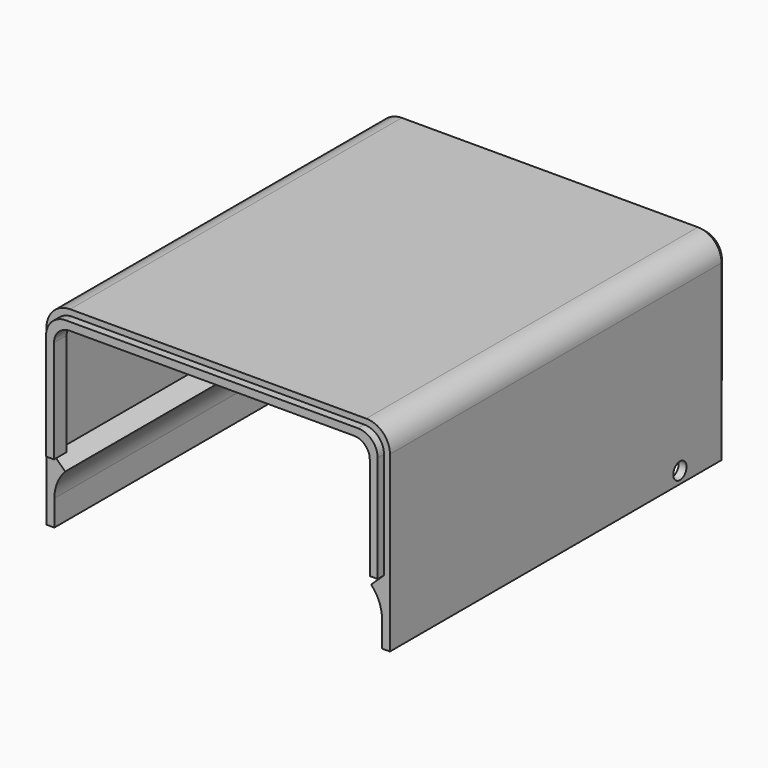
from build123d import *

# Parameters (mm, degrees)
F1_DEPTH = 105
F2_R     = 2.1
F3_DEPTH = 87.001
F6_DEPTH = 2
F8_DEPTH = 2


with BuildPart() as f1:
    # F0 (on Front) → F1 (new body)
    with BuildSketch(Plane.XZ):
        with BuildLine():
            ThreePointArc((-41.5, 11.5), (-40.784767, 15.213907), (-38.741379, 18.396552))
            Line((-38.741379, 18.396552), (-42, 21.5))
            Line((-42, 21.5), (-42, 48.5))
            ThreePointArc((-42, 48.5), (-40.535534, 52.035534), (-37, 53.5))
            Line((-37, 53.5), (37, 53.5))
            ThreePointArc((37, 53.5), (40.535534, 52.035534), (42, 48.5))
            Line((42, 48.5), (42, 21.5))
            Line((42, 21.5), (38.741379, 18.396552))
            ThreePointArc((38.741379, 18.396552), (40.784767, 15.213907), (41.5, 11.5))
            Line((41.5, 11.5), (41.5, 5))
            Line((41.5, 5), (43.5, 5))
            Line((43.5, 5), (43.5, 49))
            ThreePointArc((43.5, 49), (41.742641, 53.242641), (37.5, 55))
            Line((37.5, 55), (-37.5, 55))
            ThreePointArc((-37.5, 55), (-41.742641, 53.242641), (-43.5, 49))
            Line((-43.5, 49), (-43.5, 5))
            Line((-43.5, 5), (-41.5, 5))
            Line((-41.5, 5), (-41.5, 11.5))
        make_face()
    extrude(amount=F1_DEPTH)

    # F2 (on face) → F3 (cut, through all)
    with BuildSketch(Plane.YZ.offset(43.5)):
        with Locations((-13.182085, 8)):
            Circle(F2_R)
    extrude(amount=-F3_DEPTH, mode=Mode.SUBTRACT)

    # F5 (on face) → F6 (join, symmetric)
    with BuildSketch(Plane.XZ.offset(105)):
        with BuildLine():
            Line((-42, 21.5), (-40, 21.5))
            Line((-40, 21.5), (-40, 47.5))
            ThreePointArc((-40, 47.5), (-38.828427, 50.328427), (-36, 51.5))
            Line((-36, 51.5), (36, 51.5))
            ThreePointArc((36, 51.5), (38.828427, 50.328427), (40, 47.5))
            Line((40, 47.5), (40, 21.5))
            Line((40, 21.5), (42, 21.5))
            Line((42, 21.5), (42, 48.5))
            ThreePointArc((42, 48.5), (40.535534, 52.035534), (37, 53.5))
            Line((37, 53.5), (-37, 53.5))
            ThreePointArc((-37, 53.5), (-40.535534, 52.035534), (-42, 48.5))
            Line((-42, 48.5), (-42, 21.5))
        make_face()
    extrude(amount=F6_DEPTH, both=True)

    # F7 (on face) → F8 (join, symmetric)
    with BuildSketch(Plane(origin=(0, 0, 0), x_dir=(-1, 0, 0), z_dir=(0, 1, 0))):
        with BuildLine():
            Line((-42, 48.5), (-42, 21.5))
            Line((-42, 21.5), (-40, 21.5))
            Line((-40, 21.5), (-40, 47.5))
            ThreePointArc((-40, 47.5), (-38.828427, 50.328427), (-36, 51.5))
            Line((-36, 51.5), (36, 51.5))
            ThreePointArc((36, 51.5), (38.828427, 50.328427), (40, 47.5))
            Line((40, 47.5), (40, 21.5))
            Line((40, 21.5), (42, 21.5))
            Line((42, 21.5), (42, 48.5))
            ThreePointArc((42, 48.5), (40.535534, 52.035534), (37, 53.5))
            Line((37, 53.5), (-37, 53.5))
            ThreePointArc((-37, 53.5), (-40.535534, 52.035534), (-42, 48.5))
        make_face()
    extrude(amount=F8_DEPTH, both=True)


solid = f1.part
